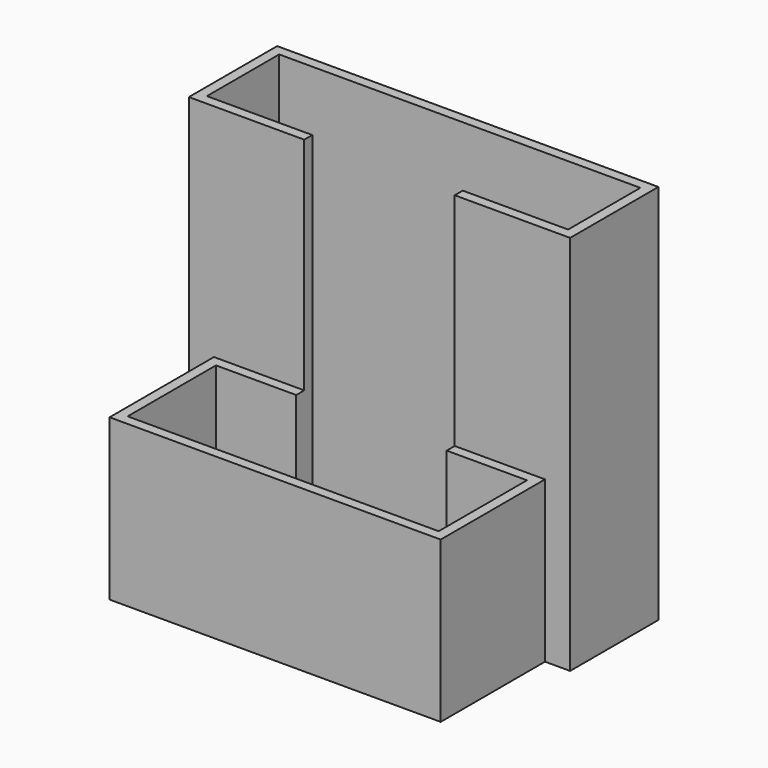
from build123d import *

# Parameters (mm, degrees)
SKETCH_W        = 76
SKETCH_H        = 22
PAD_DEPTH       = 76
SKETCH001_W     = 66
SKETCH001_H     = 26
PAD001_DEPTH    = 32
SKETCH002_W     = 62
SKETCH002_H     = 22
POCKET_DEPTH    = 30
SKETCH003_W     = 72
SKETCH003_H     = 18
POCKET001_DEPTH = 74
SKETCH004_W     = 30
SKETCH004_H     = 2
POCKET002_DEPTH = 30
SKETCH005_W     = 30
SKETCH005_H     = 2
POCKET003_DEPTH = 74


with BuildPart() as part:
    # Sketch → Pad (new body)
    with BuildSketch(Plane.XY):
        with Locations((38, 11)):
            Rectangle(SKETCH_W, SKETCH_H)
    extrude(amount=PAD_DEPTH)

    # Sketch001 → Pad001 (join)
    with BuildSketch(Plane.XY):
        with Locations((38, -13)):
            Rectangle(SKETCH001_W, SKETCH001_H)
    extrude(amount=PAD001_DEPTH)

    # Sketch002 (on Face4 of Pad001) → Pocket (cut)
    with BuildSketch(Plane.XY.offset(32)):
        with Locations((38, -13)):
            Rectangle(SKETCH002_W, SKETCH002_H)
    extrude(amount=-POCKET_DEPTH, mode=Mode.SUBTRACT)

    # Sketch003 (on Face7 of Pocket) → Pocket001 (cut)
    with BuildSketch(Plane.XY.offset(76)):
        with Locations((38, 11)):
            Rectangle(SKETCH003_W, SKETCH003_H)
    extrude(amount=-POCKET001_DEPTH, mode=Mode.SUBTRACT)

    # Sketch004 (on Face4 of Pocket001) → Pocket002 (cut)
    with BuildSketch(Plane.XY.offset(32)):
        with Locations((38, -1)):
            Rectangle(SKETCH004_W, SKETCH004_H)
    extrude(amount=-POCKET002_DEPTH, mode=Mode.SUBTRACT)

    # Sketch005 (on Face8 of Pocket002) → Pocket003 (cut)
    with BuildSketch(Plane.XY.offset(76)):
        with Locations((38, 1)):
            Rectangle(SKETCH005_W, SKETCH005_H)
    extrude(amount=-POCKET003_DEPTH, mode=Mode.SUBTRACT)


solid = part.part
